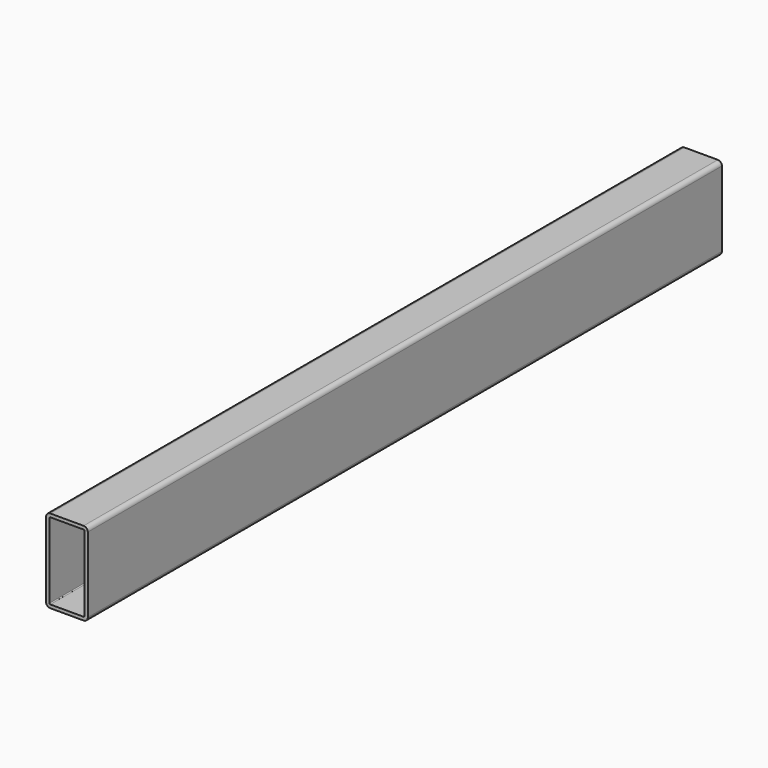
from build123d import *

# Parameters (mm, degrees)
F0_W     = 50
F0_H     = 950
F1_DEPTH = 100
F2_R     = 5
F3_T     = -4


with BuildPart() as f1:
    # F0 (on Top) → F1 (new body)
    with BuildSketch(Plane.XY):
        with Locations((-25, 475)):
            Rectangle(F0_W, F0_H)
    extrude(amount=F1_DEPTH)

    # F2
    f2_edges = [f1.edges().sort_by_distance(p)[0] for p in [
        (0, 475, 100),
        (-50, 475, 100),
        (0, 475, 0),
        (-50, 475, 0),
    ]]
    fillet(f2_edges, radius=F2_R)

    # F3
    f3_openings = [f1.faces().sort_by_distance(p)[0] for p in [
        (-25, 0, 50),
        (-25, 950, 50),
    ]]
    offset(amount=F3_T, openings=f3_openings)


solid = f1.part
